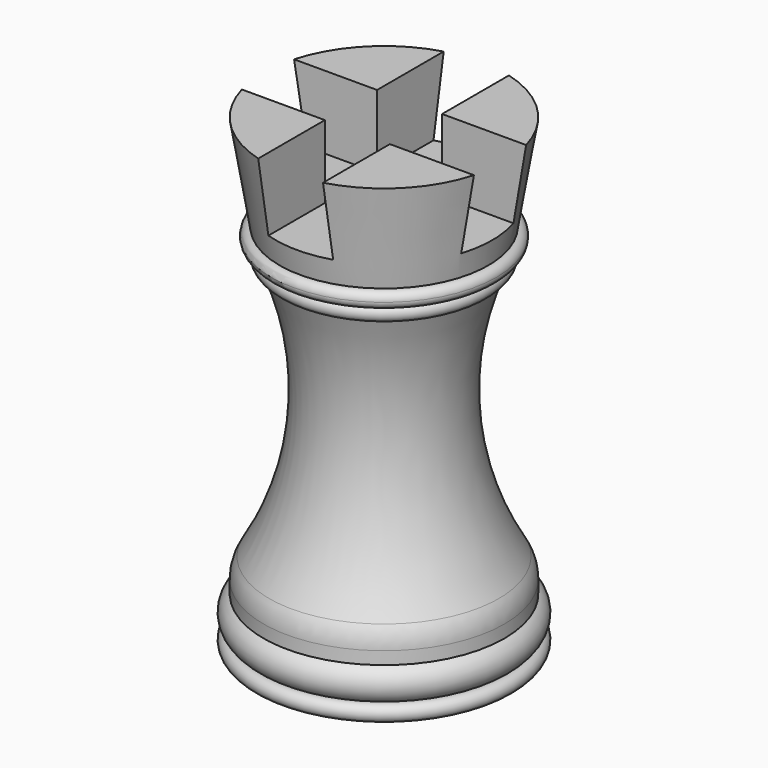
from build123d import *

# Parameters (mm, degrees)
F3_START = 25.4
F3_DEPTH = 25.4


with BuildPart() as f1:
    # F0 (on Front) → F1 (revolve)
    with BuildSketch(Plane.XZ):
        with BuildLine():
            ThreePointArc((-58.9064506507, -29.3828336132), (-60.3943482023, -31.9228336132), (-58.9064506507, -34.4628336132))
            Line((-58.9064506507, -34.4628336132), (-39.8564506507, -34.4628336132))
            Line((-39.8564506507, -34.4628336132), (-39.8564506507, -29.3828336132))
            Line((-39.8564506507, -29.3828336132), (-58.9064506507, -29.3828336132))
        make_face()
        with BuildLine():
            Line((-39.8564506507, -34.4628336132), (-58.9064506507, -34.4628336132))
            ThreePointArc((-58.9064506507, -34.4628336132), (-60.3943482023, -35.7328336132), (-58.9064506507, -37.0028336132))
            Line((-58.9064506507, -37.0028336132), (-39.8564506507, -37.0028336132))
            Line((-39.8564506507, -37.0028336132), (-39.8564506507, -34.4628336132))
        make_face()
        with BuildLine():
            Line((-58.9064506507, -27.3810339656), (-58.9064506507, -29.3828336132))
            Line((-58.9064506507, -29.3828336132), (-39.8564506507, -29.3828336132))
            Line((-39.8564506507, -29.3828336132), (-39.8564506507, 16.6176444697))
            Line((-39.8564506507, 16.6176444697), (-55.0964506507, 16.6176444697))
            ThreePointArc((-55.0964506507, 16.6176444697), (-51.7262445848, -4.1035699431), (-58.0132319469, -24.1335675862))
            ThreePointArc((-58.0132319469, -24.1335675862), (-58.6790751382, -25.6970003007), (-58.9064506507, -27.3810339656))
        make_face()
        with BuildLine():
            Line((-55.0964506507, 16.6176444697), (-39.8564506507, 16.6176444697))
            Line((-39.8564506507, 16.6176444697), (-39.8564506507, 19.1576444697))
            Line((-39.8564506507, 19.1576444697), (-55.0964506507, 19.1576444697))
            ThreePointArc((-55.0964506507, 19.1576444697), (-56.3664506507, 17.8876444697), (-55.0964506507, 16.6176444697))
        make_face()
        Polygon((-55.0964506507, 19.1576444697), (-39.8564506507, 19.1576444697), (-39.8564506507, 21.6976444697), (-56.3664506507, 21.6976444697), (-56.3664506507, 20.4276444697), (-56.3664506507, 19.1576444697), align=None)
        Polygon((-56.3664506507, 21.6976444697), (-39.8564506507, 21.6976444697), (-39.8564506507, 36.9376444697), (-49.3814506507, 36.9376444697), (-58.9064506507, 36.9376444697), align=None)
        with BuildLine():
            Line((-56.3664506507, 20.4276444697), (-56.3664506507, 21.6976444697))
            ThreePointArc((-56.3664506507, 21.6976444697), (-57.2644762628, 21.3256700818), (-57.6364506507, 20.4276444697))
            Line((-57.6364506507, 20.4276444697), (-56.3664506507, 20.4276444697))
        make_face()
        with BuildLine():
            ThreePointArc((-57.6364506507, 20.4276444697), (-57.2644762628, 19.5296188576), (-56.3664506507, 19.1576444697))
            Line((-56.3664506507, 19.1576444697), (-56.3664506507, 20.4276444697))
            Line((-56.3664506507, 20.4276444697), (-57.6364506507, 20.4276444697))
        make_face()
    revolve(axis=Axis((-39.8564506507, 0, -0.0325945717), (0, 0, -1)))

    # F2 (on Top) → F3 (cut)
    with BuildSketch(Plane.XY.offset(F3_START)):
        Polygon((-34.8015904892, -20.6339396536), (-34.8015904892, -5.1584849134), (-19.3843152374, -5.1584849134), (-19.3843152374, 5.1584849134), (-29.6624987386, 5.1584849134), (-34.8015904892, 5.1584849134), (-34.8015904892, 20.6339396536), (-39.9406822398, 20.6339396536), (-45.0797739904, 20.6339396536), (-45.0797739904, 5.1584849134), (-50.218865741, 5.1584849134), (-60.4970492423, 5.1584849134), (-60.4970492423, -5.1584849134), (-45.0797739904, -5.1584849134), (-45.0797739904, -20.6339396536), (-39.9406822398, -20.6339396536), align=None)
    extrude(amount=F3_DEPTH, mode=Mode.SUBTRACT)


solid = f1.part
